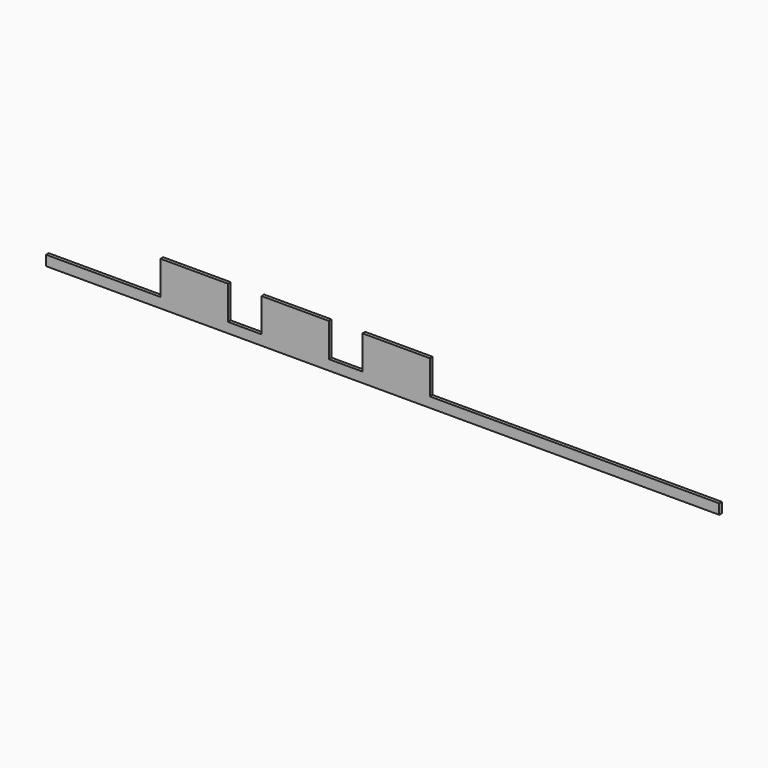
from build123d import *

# Parameters (mm, degrees)
F0_W     = 20
F0_H     = 10
F1_DEPTH = 1


with BuildPart() as f1:
    # F0 (on Front) → F1 (new body)
    with BuildSketch(Plane.XZ):
        Polygon((0, 21), (0, 18), (200, 18), (200, 21), (114, 21), (94, 21), (84, 21), (64, 21), (54, 21), (34, 21), align=None)
        with Locations((44, 26)):
            Rectangle(F0_W, F0_H)
        with Locations((104, 26)):
            Rectangle(F0_W, F0_H)
        with Locations((74, 26)):
            Rectangle(F0_W, F0_H)
    extrude(amount=F1_DEPTH)


solid = f1.part
